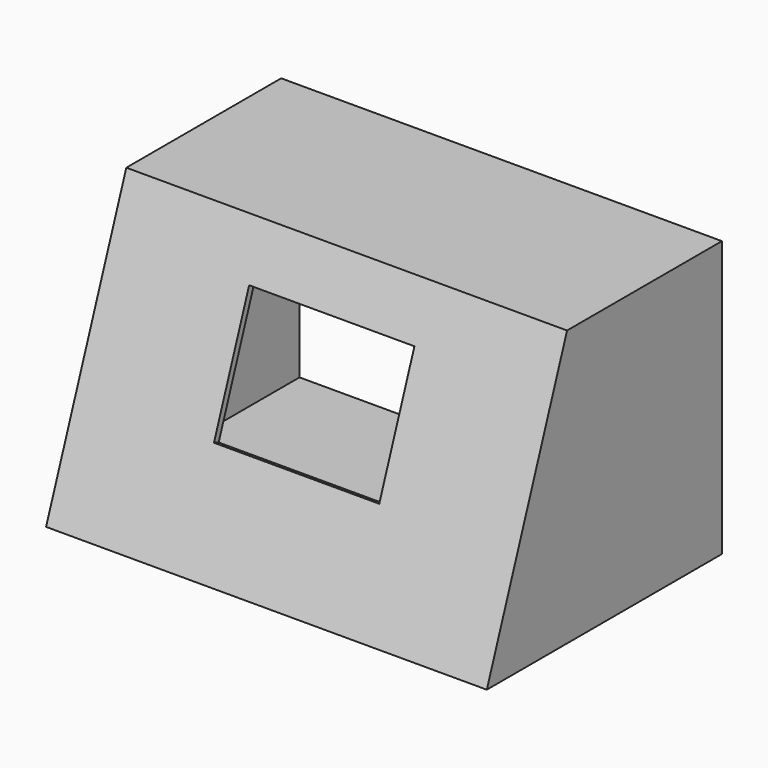
from build123d import *

# Parameters (mm, degrees)
SKETCH003_AS_DRAWN_W                      = 65.558531
SKETCH003_AS_DRAWN_H                      = 42.669216
EXTRUDE002_DEPTH                          = 10
EXTRUDE002_ONTO_SKETCH003_PLACEMENT_ANGLE = 70
EXTRUDE_DEPTH                             = 110
SKETCH001_AS_DRAWN_W                      = 35
SKETCH001_AS_DRAWN_H                      = 45
EXTRUDE001_DEPTH                          = 10
EXTRUDE001_DEPTH_BACK                     = 60
EXTRUDE001_ONTO_SKETCH001_PITCH_ANGLE     = 70
EXTRUDE001_ONTO_SKETCH001_PLACEMENT_ANGLE = -90
PAD_DEPTH                                 = 120


with BuildPart() as extrude002:
    # Sketch003 as drawn → Extrude002 (new)
    with BuildSketch(Plane.XY):
        with Locations((59.320267, 47.473028)):
            Rectangle(SKETCH003_AS_DRAWN_W, SKETCH003_AS_DRAWN_H)
    extrude(amount=EXTRUDE002_DEPTH)


with BuildPart() as extrude002_1:
    # Extrude002 onto Sketch003 placement: moved
    add(extrude002.part.rotate(Axis((0, 0, 0), (1, 0, 0)), EXTRUDE002_ONTO_SKETCH003_PLACEMENT_ANGLE))


with BuildPart() as extrude002_2:
    # Extrude002 placement: moved
    add(extrude002_1.part.moved(Location((0, 11, -4))))


with BuildPart() as extrude_body:
    # Sketch002 (on DatumPlane) → Extrude (new body)
    with BuildSketch(Plane(origin=(120, 0, 120), x_dir=(0, 0, -1), z_dir=(1, 0, 0))):
        Polygon((48.197427, 92.291939), (48.197427, 30.088142), (115.056506, 5.753427), (115.056506, 92.291939), align=None)
    extrude(amount=EXTRUDE_DEPTH)


with BuildPart() as extrude_body_1:
    # Extrude placement: moved
    add(extrude_body.part.moved(Location((-115, 0, 0))))


with BuildPart() as extrude001:
    # Sketch001 as drawn → Extrude001 (new, two sides)
    with BuildSketch(Plane.XY) as extrude001_sk:
        with Locations((-47.5, 60)):
            Rectangle(SKETCH001_AS_DRAWN_W, SKETCH001_AS_DRAWN_H)
    extrude(amount=EXTRUDE001_DEPTH)
    extrude(extrude001_sk.sketch, amount=-EXTRUDE001_DEPTH_BACK)


with BuildPart() as extrude001_1:
    # Extrude001 onto Sketch001 pitch: moved
    add(extrude001.part.rotate(Axis((0, 0, 0), (0, 1, 0)), EXTRUDE001_ONTO_SKETCH001_PITCH_ANGLE))


with BuildPart() as extrude001_2:
    # Extrude001 onto Sketch001 placement: moved
    add(extrude001_1.part.rotate(Axis((0, 0, 0), (0, 0, 1)), EXTRUDE001_ONTO_SKETCH001_PLACEMENT_ANGLE))


with BuildPart() as cut002:
    # Sketch → Pad (new body)
    with BuildSketch(Plane.YZ):
        Polygon((0, 0), (27.297768, 75), (80, 75), (80, 0), align=None)
    extrude(amount=PAD_DEPTH)

    # Cut: cut Extrude001
    add(extrude001_2.part, mode=Mode.SUBTRACT)

    # Cut001: cut Extrude body
    add(extrude_body_1.part, mode=Mode.SUBTRACT)

    # Cut002: cut Extrude002
    add(extrude002_2.part, mode=Mode.SUBTRACT)


solid = cut002.part
